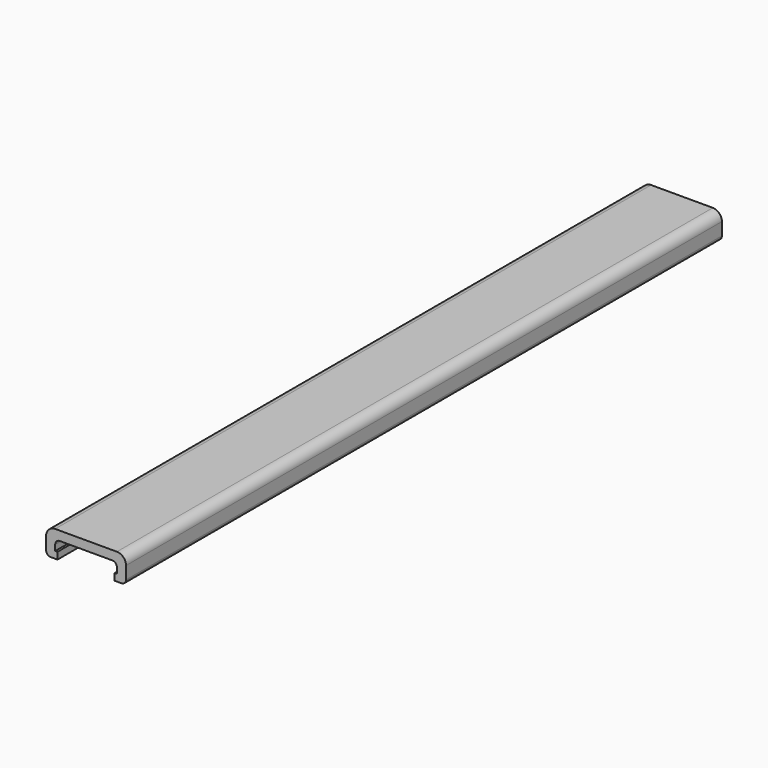
from build123d import *

# Parameters (mm, degrees)
F1_DEPTH = 163
F2_R     = 2
F3_R     = 1
F4_R     = 1


with BuildPart() as f1:
    # F0 (on Front) → F1 (new body)
    with BuildSketch(Plane.XZ):
        Polygon((8.75, 0), (0, 0), (0, -2), (6.75, -2), (6.75, -4.25), (6.25, -4.25), (6.25, -5.75), (8.75, -5.75), align=None)
    extrude(amount=F1_DEPTH)

    # F2
    f2_edges = [f1.edges().sort_by_distance(p)[0] for p in [
        (8.75, -81.5, 0),
    ]]
    fillet(f2_edges, radius=F2_R)

    # F3
    f3_edges = [f1.edges().sort_by_distance(p)[0] for p in [
        (6.75, -81.5, -2),
    ]]
    fillet(f3_edges, radius=F3_R)

    # F4
    f4_edges = [f1.edges().sort_by_distance(p)[0] for p in [
        (8.75, -81.5, -5.75),
    ]]
    fillet(f4_edges, radius=F4_R)

    # F5: F1 across plane


with BuildPart() as f1_1:
    add(f1.part)
    add(f1.part.mirror(Plane.YZ))


solid = f1_1.part
